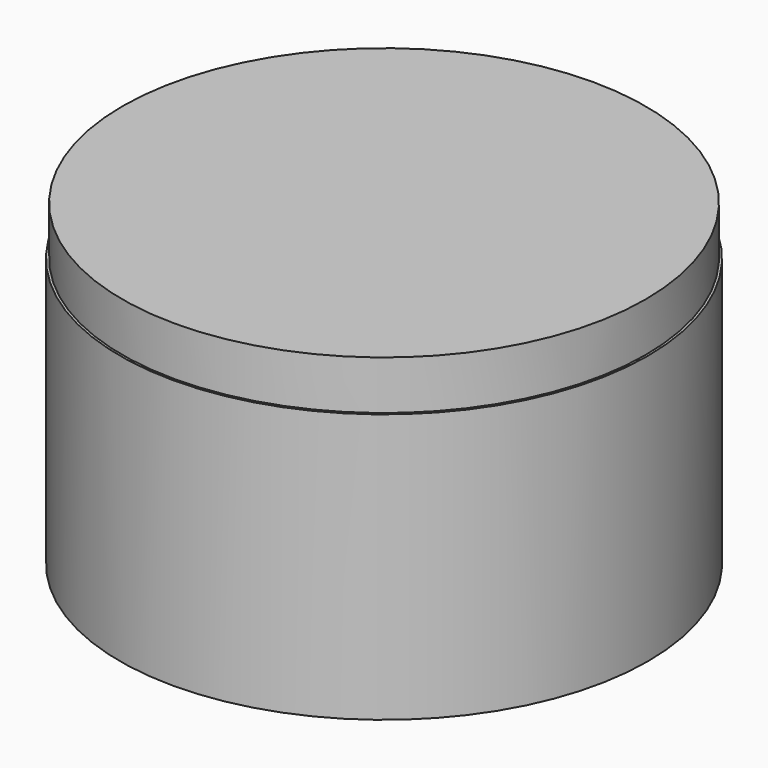
from build123d import *

# Parameters (mm, degrees)
F0_R     = 10.7
F1_DEPTH = 2
F2_R     = 3.75
F3_DEPTH = 11


with BuildPart() as f1:
    # F0 (on Top) → F1 (new body)
    with BuildSketch(Plane.XY):
        Circle(F0_R)
    extrude(amount=F1_DEPTH)

    # F2 (on Top) → F3 (join)
    with BuildSketch(Plane.XY):
        Circle(F2_R)
    extrude(amount=-F3_DEPTH)

    # F4 (on Front) → F5 (revolve)
    with BuildSketch(Plane.XZ):
        with BuildLine():
            Line((-4.3987915084, 0), (-10.7987915084, 0))
            Line((-10.7987915084, 0), (-10.7987915084, -11))
            Line((-10.7987915084, -11), (-10.3134103119, -11))
            ThreePointArc((-10.3134103119, -11), (-8.3948121612, -4.9414926276), (-4.3987915084, 0))
        make_face()
    revolve(axis=Axis((0, 0, -4.4246494012), (0, 0, -1)))


solid = f1.part
